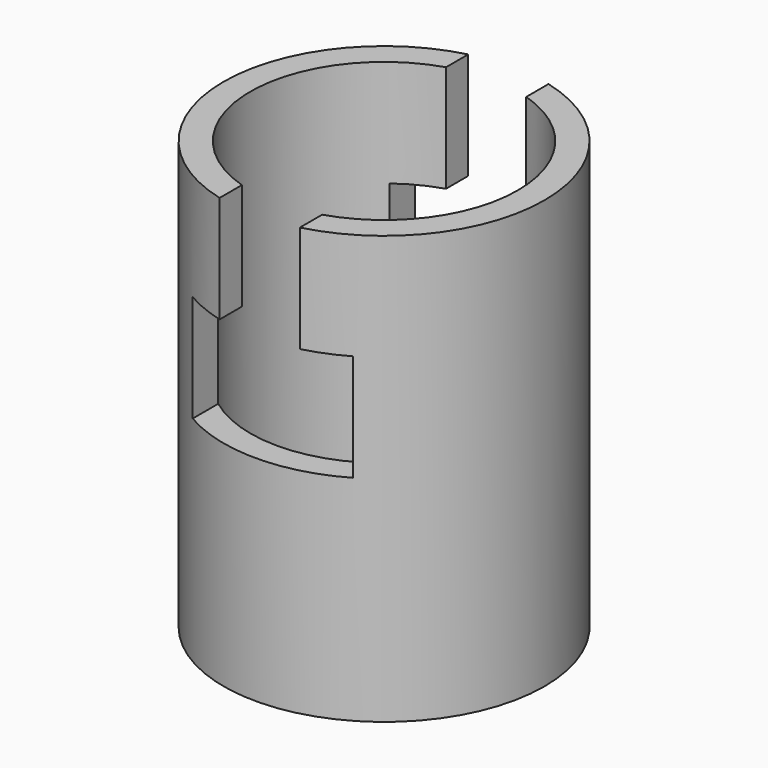
from build123d import *

# Parameters (mm, degrees)
F0_R     = 30
F0_R_2   = 25
F1_DEPTH = 40
F3_DEPTH = 52.8


with BuildPart() as f1:
    # F0 (on Top) → F1 (new body, symmetric)
    with BuildSketch(Plane.XY):
        Circle(F0_R)
        Circle(F0_R_2, mode=Mode.SUBTRACT)
    extrude(amount=F1_DEPTH, both=True)

    # F2 (on Front) → F3 (cut, symmetric)
    with BuildSketch(Plane.XZ):
        Polygon((7.5, 40), (-7.5, 40), (-7.5, 20), (-15, 20), (-15, 0), (15, 0), (15, 20), (7.5, 20), align=None)
    extrude(amount=F3_DEPTH, both=True, mode=Mode.SUBTRACT)


solid = f1.part
